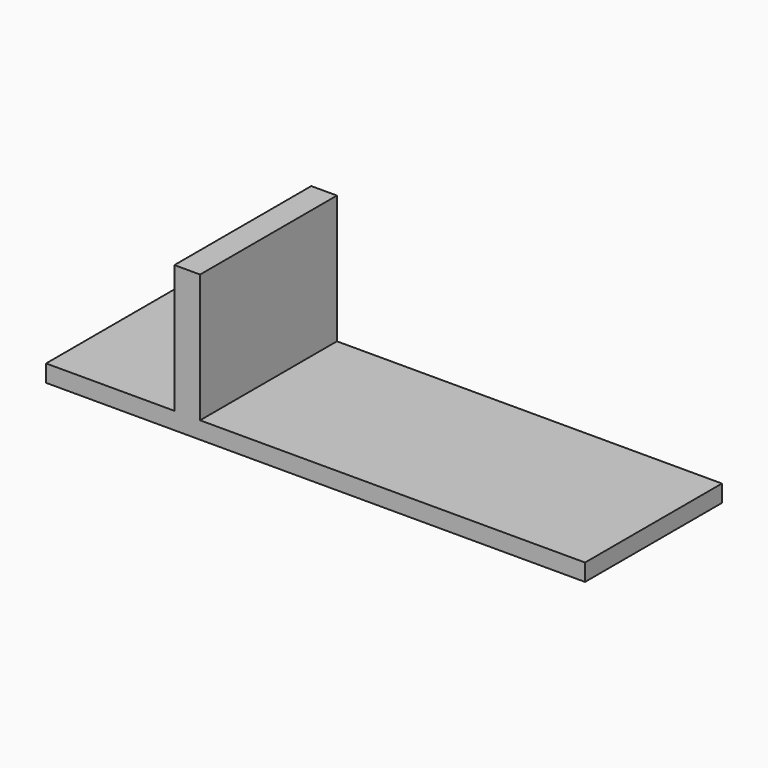
from build123d import *

# Parameters (mm, degrees)
F0_W     = 45
F0_H     = 20
F0_W_2   = 3
F0_W_3   = 15
F1_DEPTH = 2
F2_DEPTH = 15


with BuildPart() as f1:
    # F0 (on Top) → F1 (new body)
    with BuildSketch(Plane.XY):
        with Locations((-21.151677, 21.431452)):
            Rectangle(F0_W, F0_H)
        with Locations((-45.151677, 21.431452)):
            Rectangle(F0_W_2, F0_H)
        with Locations((-54.151677, 21.431452)):
            Rectangle(F0_W_3, F0_H)
    extrude(amount=-F1_DEPTH)

    # F0 (on Top) → F2 (join)
    with BuildSketch(Plane.XY):
        with Locations((-45.151677, 21.431452)):
            Rectangle(F0_W_2, F0_H)
    extrude(amount=F2_DEPTH)


solid = f1.part
